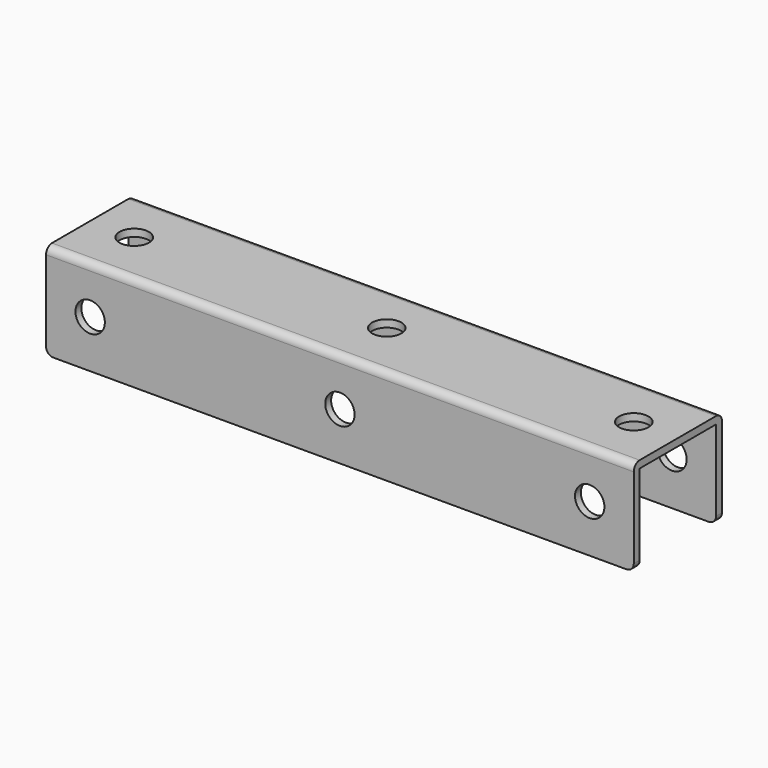
from build123d import *

# Parameters (mm, degrees)
F0_W     = 160
F0_H     = 26
F0_R     = 4
F1_DEPTH = 2
F4_W     = 160
F4_H     = 26
F4_R     = 4
F7_DEPTH = 2
F6_W     = 160
F6_H     = 26
F6_R     = 4
F8_DEPTH = 2
F9_R     = 2


with BuildPart() as f1:
    # F0 (on Top) → F1 (new body)
    with BuildSketch(Plane.XY):
        with Locations((1.2090578675, -20.3812407514)):
            Rectangle(F0_W, F0_H)
        with Locations((-66.7909421325, -20.3812407514)):
            Circle(F0_R, mode=Mode.SUBTRACT)
        with Locations((1.2090578675, -19.4504977352)):
            Circle(F0_R, mode=Mode.SUBTRACT)
        with Locations((69.2090578675, -20.3812407514)):
            Circle(F0_R, mode=Mode.SUBTRACT)
    extrude(amount=F1_DEPTH)

    # F4 (on offset) → F7 (join)
    with BuildSketch(Plane(origin=(0, -7.3812407514, 0), x_dir=(-1, 0, 0), z_dir=(0, 1, 0))):
        with Locations((-1.2090578675, -11)):
            Rectangle(F4_W, F4_H)
        with Locations((-69.2090578675, -11)):
            Circle(F4_R, mode=Mode.SUBTRACT)
        with Locations((-1.2090578675, -11)):
            Circle(F4_R, mode=Mode.SUBTRACT)
        with Locations((66.7909421325, -11)):
            Circle(F4_R, mode=Mode.SUBTRACT)
    extrude(amount=F7_DEPTH)

    # F6 (on offset) → F8 (join)
    with BuildSketch(Plane.XZ.offset(33.3812407514)):
        with Locations((1.2090578675, -11)):
            Rectangle(F6_W, F6_H)
        with Locations((-66.7909421325, -11)):
            Circle(F6_R, mode=Mode.SUBTRACT)
        with Locations((1.2090578675, -11)):
            Circle(F6_R, mode=Mode.SUBTRACT)
        with Locations((69.2090578675, -11)):
            Circle(F6_R, mode=Mode.SUBTRACT)
    extrude(amount=F8_DEPTH)

    # F9
    f9_edges = [f1.edges().sort_by_distance(p)[0] for p in [
        (1.209058, -5.381241, 2),
        (1.209058, -35.381241, 2),
        (-78.790942, -34.381241, -24),
        (-78.790942, -6.381241, -24),
        (81.209058, -34.381241, -24),
        (81.209058, -6.381241, -24),
    ]]
    fillet(f9_edges, radius=F9_R)


solid = f1.part
